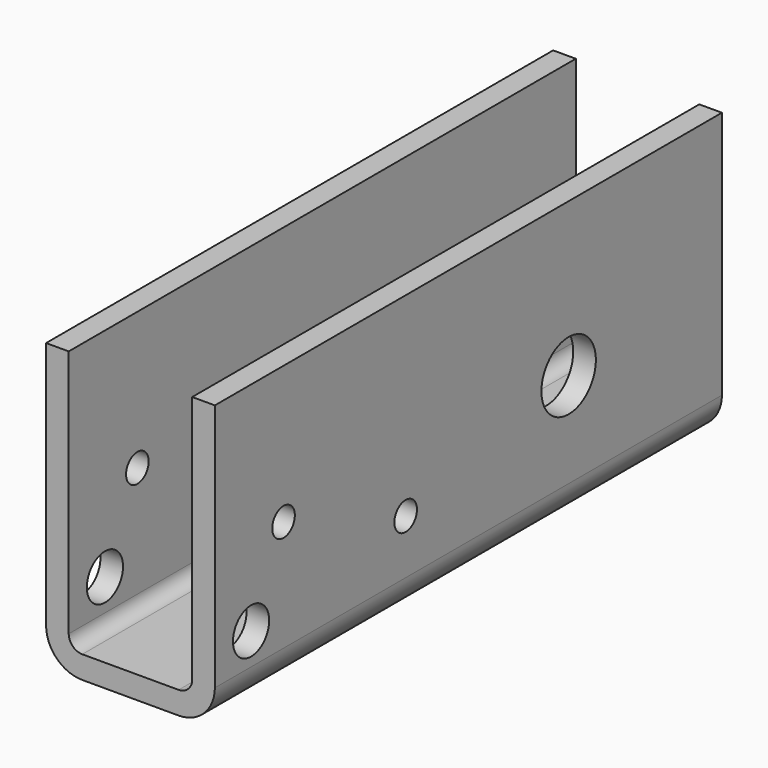
from build123d import *

# Parameters (mm, degrees)
F2_START      = -71.12
F2_DEPTH      = 88.9
F0_R          = 3.175
F0_R_2        = 1.9812
F0_R_3        = 4.7752
F3_DEPTH      = 25.4
F3_DEPTH_BACK = 25.4


with BuildPart() as f2:
    # F1 (on Front) → F2 (new body)
    with BuildSketch(Plane.XZ.offset(F2_START)):
        with BuildLine():
            Line((-8.6614, -53.2892), (-8.6614, -18.415))
            Line((-8.6614, -18.415), (-11.8364, -18.415))
            Line((-11.8364, -18.415), (-11.8364, -53.2892))
            ThreePointArc((-11.8364, -53.2892), (-10.3485024484, -56.8813024484), (-6.7564, -58.3692))
            Line((-6.7564, -58.3692), (0, -58.3692))
            Line((0, -58.3692), (6.7564, -58.3692))
            ThreePointArc((6.7564, -58.3692), (10.3485024484, -56.8813024484), (11.8364, -53.2892))
            Line((11.8364, -53.2892), (11.8364, -18.415))
            Line((11.8364, -18.415), (8.6614, -18.415))
            Line((8.6614, -18.415), (8.6614, -53.2892))
            ThreePointArc((8.6614, -53.2892), (8.1034384182, -54.6362384182), (6.7564, -55.1942))
            Line((6.7564, -55.1942), (0, -55.1942))
            Line((0, -55.1942), (-6.7564, -55.1942))
            ThreePointArc((-6.7564, -55.1942), (-8.1034384182, -54.6362384182), (-8.6614, -53.2892))
        make_face()
    extrude(amount=-F2_DEPTH)

    # F0 (on Right) → F3 (cut, two sides)
    with BuildSketch(Plane.YZ) as f3_sk:
        with Locations((77.47, -48.8442)):
            Circle(F0_R)
        with Locations((83.1596, -37.6936)):
            Circle(F0_R_2)
        with Locations((104.5718, -45.6692)):
            Circle(F0_R_2)
        with Locations((133.1468, -39.9542)):
            Circle(F0_R_3)
    extrude(amount=F3_DEPTH, mode=Mode.SUBTRACT)
    extrude(f3_sk.sketch, amount=-F3_DEPTH_BACK, mode=Mode.SUBTRACT)


solid = f2.part
